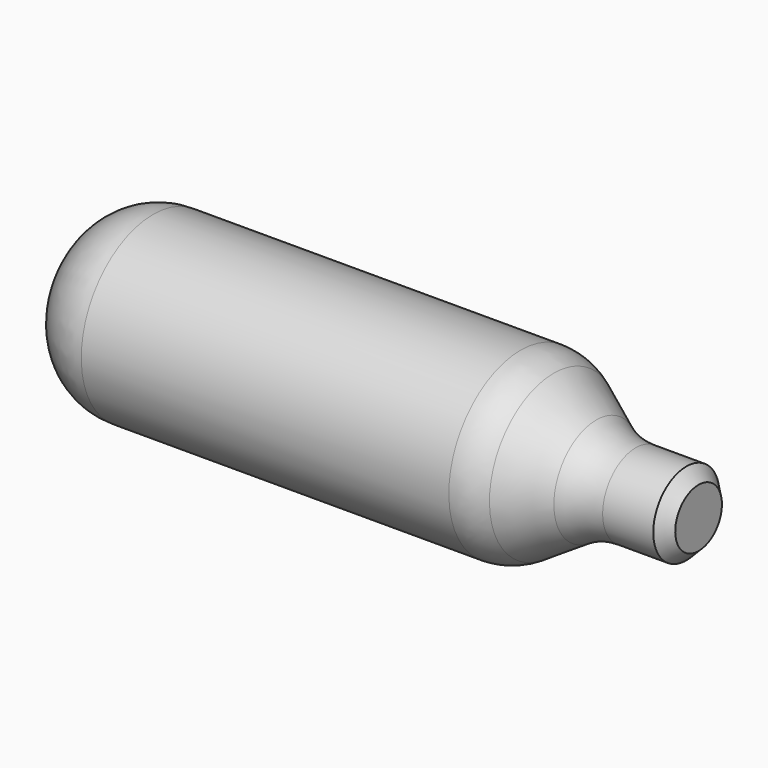
from build123d import *

# Parameters (mm, degrees)
F2_SIZE = 1.27


with BuildPart() as f1:
    # F0 (on Front) → F1 (revolve)
    with BuildSketch(Plane.XZ):
        with BuildLine():
            Line((-64.3382, 0), (0, 0))
            Line((0, 0), (0, 4.3053))
            Line((0, 4.3053), (-6.532421, 4.3053))
            ThreePointArc((-6.532421, 4.3053), (-8.673166, 4.612188), (-10.641478, 5.508132))
            Line((-10.641478, 5.508132), (-15.071602, 8.34484))
            ThreePointArc((-15.071602, 8.34484), (-16.711862, 9.09146), (-18.495816, 9.3472))
            Line((-18.495816, 9.3472), (-56.7182, 9.3472))
            ThreePointArc((-56.7182, 9.3472), (-62.106354, 7.115354), (-64.3382, 1.7272))
            Line((-64.3382, 1.7272), (-64.3382, 0))
        make_face()
    revolve(axis=Axis((-32.1691, 0, 0), (1, 0, 0)))

    # F2
    f2_edges = [f1.edges().sort_by_distance(p)[0] for p in [
        (0, 0, -4.3053),
    ]]
    chamfer(f2_edges, length=F2_SIZE)


solid = f1.part
